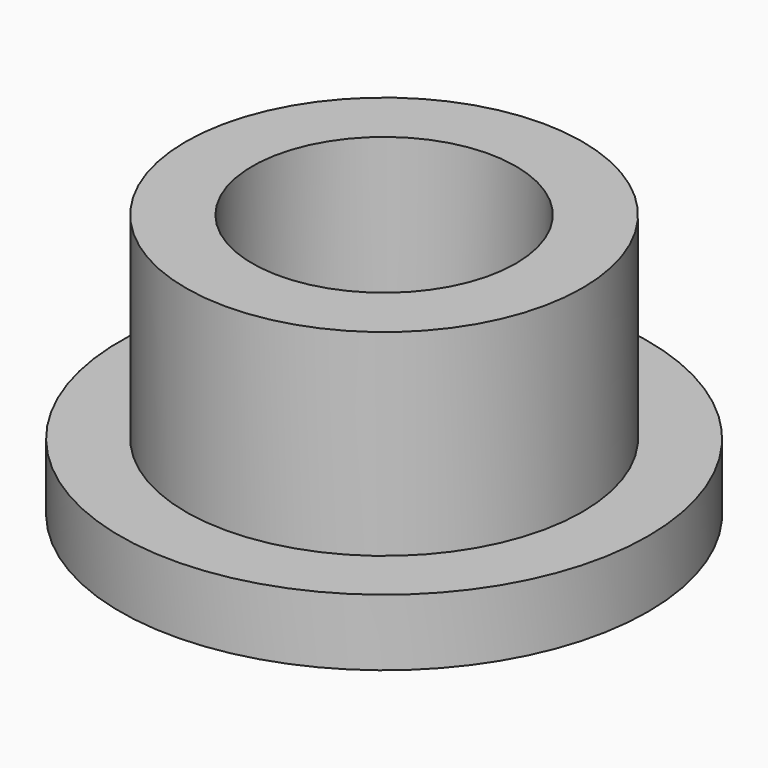
from build123d import *

# Parameters (mm, degrees)
F0_R     = 6.31
F1_DEPTH = 1.59
F2_R     = 3.15
F3_DEPTH = 1.591
F4_R     = 4.74
F4_R_2   = 3.15
F5_DEPTH = 4.71


with BuildPart() as f1:
    # F0 (on Top) → F1 (new body)
    with BuildSketch(Plane.XY):
        Circle(F0_R)
    extrude(amount=F1_DEPTH)

    # F2 (on face) → F3 (cut, through all)
    with BuildSketch(Plane.XY.offset(1.59)):
        Circle(F2_R)
    extrude(amount=-F3_DEPTH, mode=Mode.SUBTRACT)

    # F4 (on face) → F5 (join)
    with BuildSketch(Plane.XY.offset(1.59)):
        Circle(F4_R)
        Circle(F4_R_2, mode=Mode.SUBTRACT)
    extrude(amount=F5_DEPTH)


solid = f1.part
